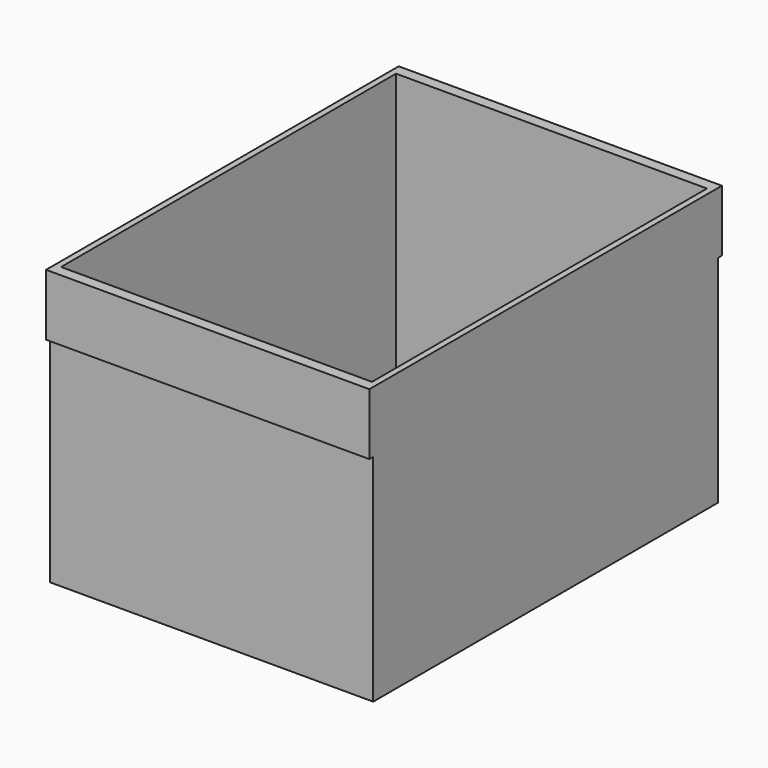
from build123d import *

# Parameters (mm, degrees)
F0_W     = 66.675
F0_H     = 88.9
F1_DEPTH = 57.15
F2_T     = -1.27
F4_DEPTH = 5.08
F5_W     = 66.675
F5_H     = 12.7
F6_DEPTH = 1
F7_W     = 66.675
F7_H     = 12.6965791702
F8_DEPTH = 1
F9_DEPTH = 25.4


with BuildPart() as f1:
    # F0 (on Top) → F1 (new body)
    with BuildSketch(Plane.XY):
        with Locations((-1.1231470853, 10.8568438743)):
            Rectangle(F0_W, F0_H)
    extrude(amount=F1_DEPTH)

    # F2
    f2_openings = [f1.faces().sort_by_distance(p)[0] for p in [
        (-1.123147, 10.856844, 57.15),
    ]]
    offset(amount=F2_T, openings=f2_openings)

    # F3 (on face) → F4 (join)
    with BuildSketch(Plane.XY.offset(1.27)):
        Polygon((30.9443529147, 41.3368438743), (28.4043529147, 41.3368438743), (28.4043529147, -0.1921561257), (28.4043529147, -3.3671561257), (28.4043529147, -9.4631561257), (30.9443529147, -9.4631561257), align=None)
        Polygon((-30.6506470853, 41.3368438743), (-33.1906470853, 41.3368438743), (-33.1906470853, -9.4631561257), (-30.6506470853, -9.4631561257), (-30.6506470853, -3.3671561257), (-30.6506470853, -0.1921561257), align=None)
    extrude(amount=F4_DEPTH)

    # F5 (on face) → F6 (join)
    with BuildSketch(Plane(origin=(0, 55.3068438743, 0), x_dir=(-1, 0, 0), z_dir=(0, 1, 0))):
        with Locations((1.1231470853, 50.8)):
            Rectangle(F5_W, F5_H)
    extrude(amount=F6_DEPTH)

    # F7 (on face) → F8 (join)
    with BuildSketch(Plane.XZ.offset(33.5931561257)):
        with Locations((-1.1231470853, 50.8017104149)):
            Rectangle(F7_W, F7_H)
    extrude(amount=F8_DEPTH)

    # F3 (on face) → F9 (cut)
    with BuildSketch(Plane.XY.offset(1.27)):
        Polygon((-33.1906470853, 54.0368438743), (-33.1906470853, 41.3368438743), (-30.6506470853, 41.3368438743), (28.4043529147, 41.3368438743), (30.9443529147, 41.3368438743), (30.9443529147, 54.0368438743), align=None)
    extrude(amount=-F9_DEPTH, mode=Mode.SUBTRACT)


solid = f1.part
